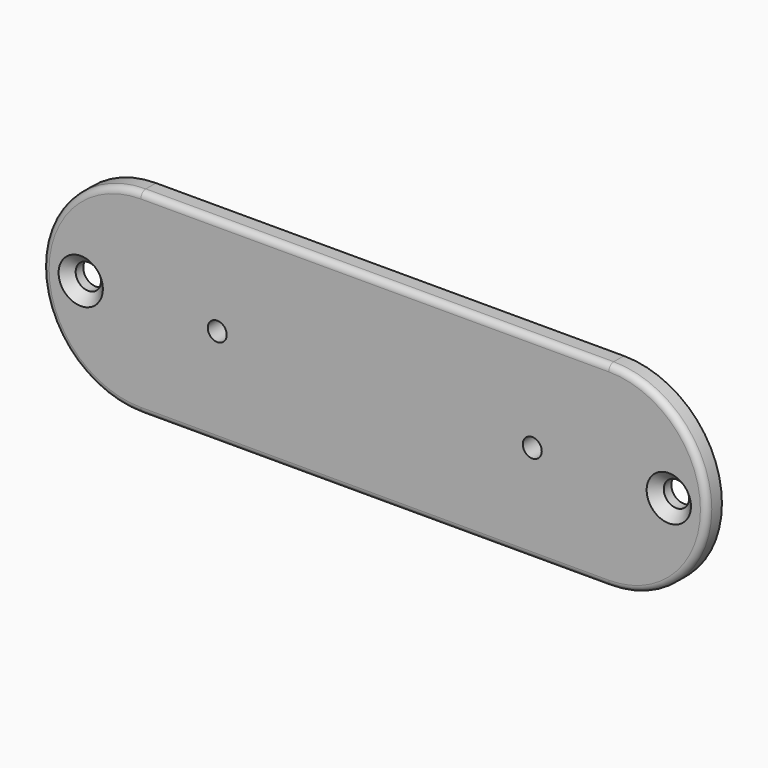
from build123d import *

# Parameters (mm, degrees)
F0_R     = 2
F0_R_2   = 1.5
F1_DEPTH = 3
F2_R     = 1
F3_SIZE  = 1.5


with BuildPart() as f1:
    # F0 (on Front) → F1 (new body)
    with BuildSketch(Plane.XZ):
        with BuildLine():
            Line((37, 15.5), (-37, 15.5))
            ThreePointArc((-37, 15.5), (-52.5, 0), (-37, -15.5))
            Line((-37, -15.5), (37, -15.5))
            ThreePointArc((37, -15.5), (52.5, 0), (37, 15.5))
        make_face()
        with Locations((-46.5, 0)):
            Circle(F0_R, mode=Mode.SUBTRACT)
        with Locations((-24.91, 0)):
            Circle(F0_R_2, mode=Mode.SUBTRACT)
        with Locations((24.91, 0)):
            Circle(F0_R_2, mode=Mode.SUBTRACT)
        with Locations((46.5, 0)):
            Circle(F0_R, mode=Mode.SUBTRACT)
    extrude(amount=F1_DEPTH)

    # F2
    f2_edges = [f1.edges().sort_by_distance(p)[0] for p in [
        (0, -3, 15.5),
    ]]
    fillet(f2_edges, radius=F2_R)

    # F3
    f3_edges = [f1.edges().sort_by_distance(p)[0] for p in [
        (-48.5, -3, 0),
        (44.5, -3, 0),
    ]]
    chamfer(f3_edges, length=F3_SIZE)


solid = f1.part
